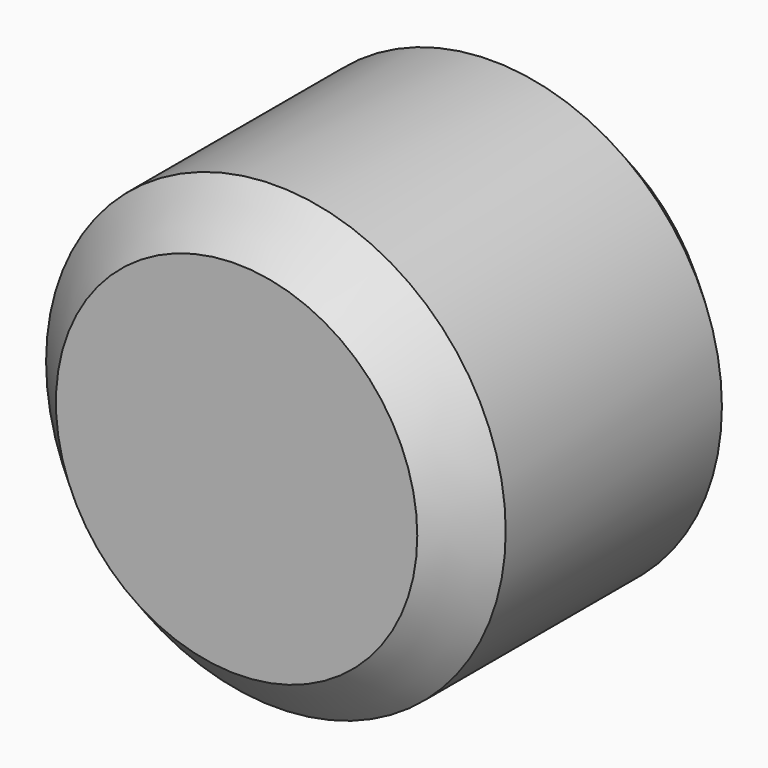
from build123d import *

# Parameters (mm, degrees)
F0_R     = 23.761832
F1_DEPTH = 38.1
F2_SIZE  = 5.08
F3_SIZE  = 5.08


with BuildPart() as f1:
    # F0 (on Front) → F1 (new body)
    with BuildSketch(Plane.XZ):
        Circle(F0_R)
    extrude(amount=F1_DEPTH)

    # F2
    f2_edges = [f1.edges().sort_by_distance(p)[0] for p in [
        (-23.761832, -38.1, 0),
    ]]
    chamfer(f2_edges, length=F2_SIZE)

    # F3
    f3_edges = [f1.edges().sort_by_distance(p)[0] for p in [
        (-23.761832, 0, 0),
    ]]
    chamfer(f3_edges, length=F3_SIZE)


solid = f1.part
